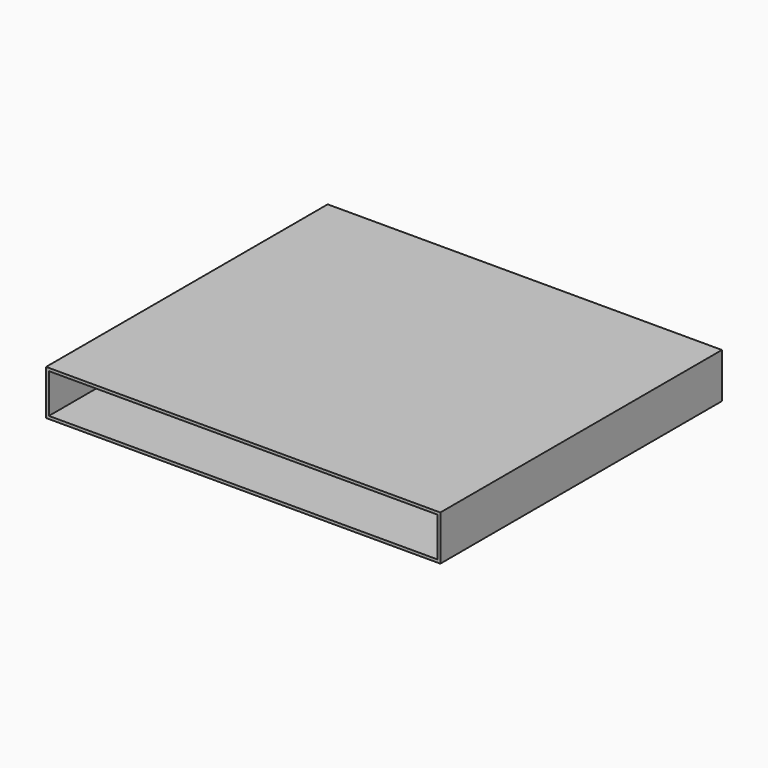
from build123d import *

# Parameters (mm, degrees)
SKETCH_W     = 28
SKETCH_H     = 25
PAD_DEPTH    = 3.2
SKETCH001_W  = 27.6
SKETCH001_H  = 2.8
POCKET_DEPTH = 20


with BuildPart() as part:
    # Sketch → Pad (new body)
    with BuildSketch(Plane.XY):
        Rectangle(SKETCH_W, SKETCH_H)
    extrude(amount=PAD_DEPTH)

    # Sketch001 (on Face3 of Pad) → Pocket (cut)
    with BuildSketch(Plane.XZ.offset(12.5)):
        with Locations((0, 1.6)):
            Rectangle(SKETCH001_W, SKETCH001_H)
    extrude(amount=-POCKET_DEPTH, mode=Mode.SUBTRACT)


solid = part.part
